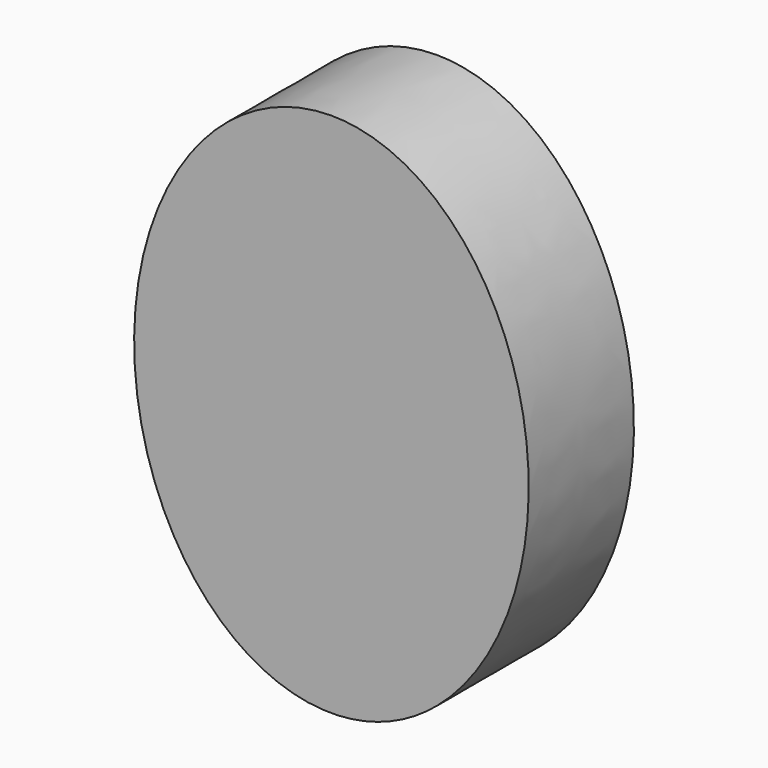
from build123d import *

# Parameters (mm, degrees)
F1_DEPTH = 12.7
F2_R     = 6.604
F3_DEPTH = 12.7
F4_R     = 11.6192603078
F5_DEPTH = 12.7


with BuildPart() as f1:
    # F0 (on Front) → F1 (new body)
    with BuildSketch(Plane.XZ):
        with BuildLine():
            add(Edge.make_bspline(
                [(0, 25.4), (-32.9955678842, 25.4), (-16.4977839421, -12.7), (0, -50.8), (16.4977839421, -12.7), (32.9955678842, 25.4), (0, 25.4)],
                knots=[0, 0, 0, 2.0943951024, 2.0943951024, 4.1887902048, 4.1887902048, 6.2831853072, 6.2831853072, 6.2831853072], degree=2, weights=[1, 0.5, 1, 0.5, 1, 0.5, 1]))
        make_face()
    extrude(amount=F1_DEPTH)

    # F2 (on face) → F3 (cut, symmetric)
    with BuildSketch(Plane.XZ.offset(12.7)):
        Circle(F2_R)
    extrude(amount=F3_DEPTH, both=True, mode=Mode.SUBTRACT)

    # F4 (on Front) → F5 (join)
    with BuildSketch(Plane.XZ):
        Circle(F4_R)
    extrude(amount=F5_DEPTH)


solid = f1.part
